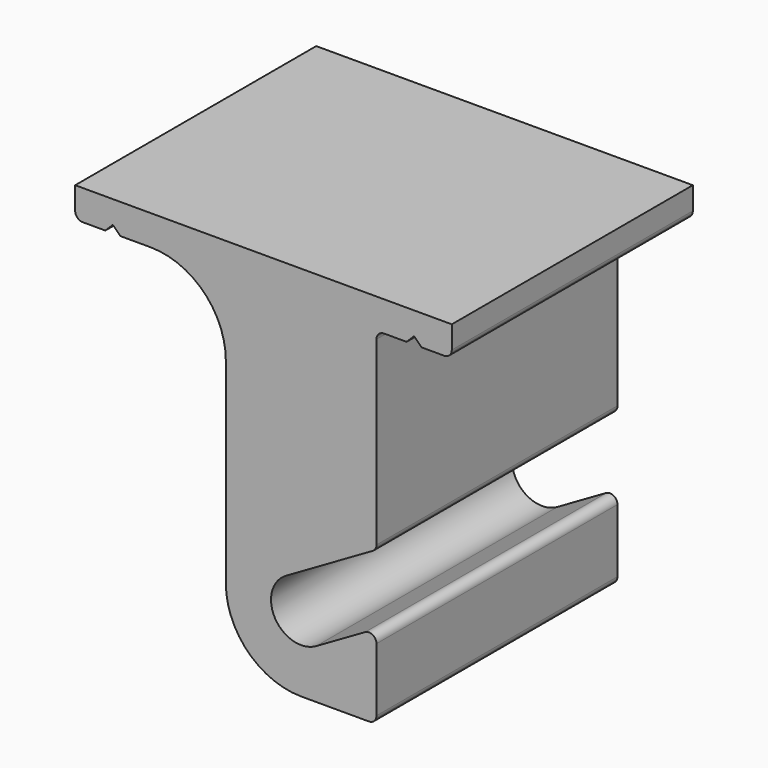
from build123d import *

# Parameters (mm, degrees)
F1_DEPTH = 40


with BuildPart() as f1:
    # F0 (on Front) → F1 (new body)
    with BuildSketch(Plane.XZ):
        with BuildLine():
            Line((0, 0), (-50, 0))
            Line((-50, 0), (-50, -3))
            ThreePointArc((-50, -3), (-49.707107, -3.707107), (-49, -4))
            Line((-49, -4), (-46, -4))
            Line((-46, -4), (-45, -3))
            Line((-45, -3), (-44, -4))
            Line((-44, -4), (-40, -4))
            ThreePointArc((-40, -4), (-32.928932, -6.928932), (-30, -14))
            Line((-30, -14), (-30, -40))
            ThreePointArc((-30, -40), (-27.071068, -47.071068), (-20, -50))
            Line((-20, -50), (-11, -50))
            ThreePointArc((-11, -50), (-10.292893, -49.707107), (-10, -49))
            Line((-10, -49), (-10, -40.57735))
            ThreePointArc((-10, -40.57735), (-10.5, -39.711325), (-11.5, -39.711325))
            Line((-11.5, -39.711325), (-18, -43.464102))
            ThreePointArc((-18, -43.464102), (-23.464102, -42), (-22, -36.535898))
            Line((-22, -36.535898), (-10.5, -29.89637))
            ThreePointArc((-10.5, -29.89637), (-10.133975, -29.530345), (-10, -29.030345))
            Line((-10, -29.030345), (-10, -5))
            ThreePointArc((-10, -5), (-9.707107, -4.292893), (-9, -4))
            Line((-9, -4), (-6, -4))
            Line((-6, -4), (-5, -3))
            Line((-5, -3), (-4, -4))
            Line((-4, -4), (-1, -4))
            ThreePointArc((-1, -4), (-0.292893, -3.707107), (0, -3))
            Line((0, -3), (0, 0))
        make_face()
    extrude(amount=-F1_DEPTH)


solid = f1.part
